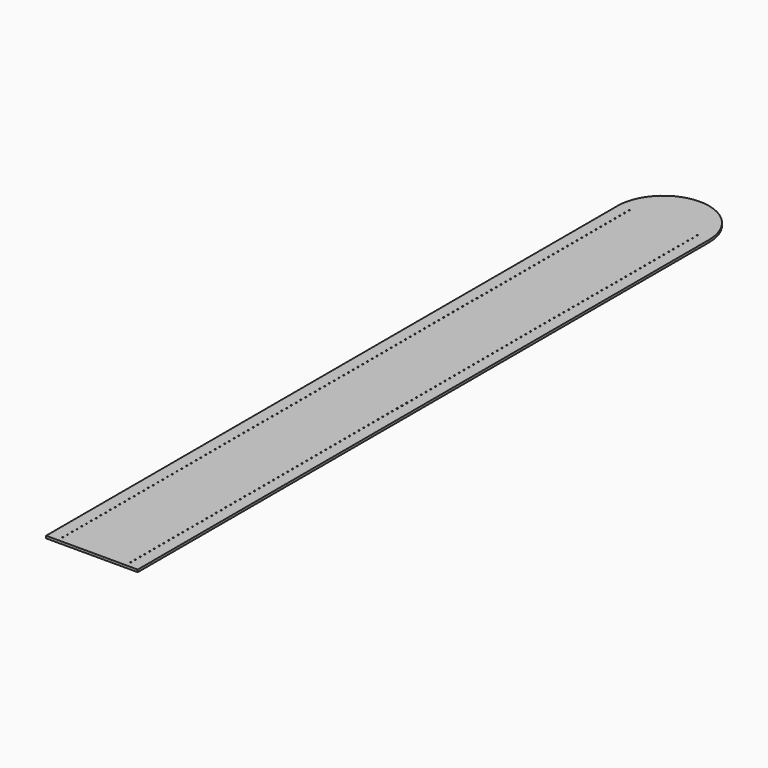
from build123d import *

# Parameters (mm, degrees)
SKETCH_R  = 0.5
PAD_DEPTH = 2


with BuildPart() as part:
    # Sketch → Pad (new body)
    with BuildSketch(Plane.XY):
        with BuildLine():
            Line((0, 0), (38.5, 0))
            Line((38.5, 0), (38.5, 600))
            ThreePointArc((38.5, 600), (27.223611, 627.223611), (0, 638.5))
            Line((0, 638.5), (0, 0))
        make_face()
        with Locations((28.5, 5)):
            Circle(SKETCH_R, mode=Mode.SUBTRACT)
        with Locations((28.5, 10)):
            Circle(SKETCH_R, mode=Mode.SUBTRACT)
        with Locations((28.5, 15)):
            Circle(SKETCH_R, mode=Mode.SUBTRACT)
        with Locations((28.5, 20)):
            Circle(SKETCH_R, mode=Mode.SUBTRACT)
        with Locations((28.5, 25)):
            Circle(SKETCH_R, mode=Mode.SUBTRACT)
        with Locations((28.5, 30)):
            Circle(SKETCH_R, mode=Mode.SUBTRACT)
        with Locations((28.5, 35)):
            Circle(SKETCH_R, mode=Mode.SUBTRACT)
        with Locations((28.5, 40)):
            Circle(SKETCH_R, mode=Mode.SUBTRACT)
        with Locations((28.5, 45)):
            Circle(SKETCH_R, mode=Mode.SUBTRACT)
        with Locations((28.5, 50)):
            Circle(SKETCH_R, mode=Mode.SUBTRACT)
        with Locations((28.5, 55)):
            Circle(SKETCH_R, mode=Mode.SUBTRACT)
        with Locations((28.5, 60)):
            Circle(SKETCH_R, mode=Mode.SUBTRACT)
        with Locations((28.5, 65)):
            Circle(SKETCH_R, mode=Mode.SUBTRACT)
        with Locations((28.5, 70)):
            Circle(SKETCH_R, mode=Mode.SUBTRACT)
        with Locations((28.5, 75)):
            Circle(SKETCH_R, mode=Mode.SUBTRACT)
        with Locations((28.5, 80)):
            Circle(SKETCH_R, mode=Mode.SUBTRACT)
        with Locations((28.5, 85)):
            Circle(SKETCH_R, mode=Mode.SUBTRACT)
        with Locations((28.5, 90)):
            Circle(SKETCH_R, mode=Mode.SUBTRACT)
        with Locations((28.5, 95)):
            Circle(SKETCH_R, mode=Mode.SUBTRACT)
        with Locations((28.5, 100)):
            Circle(SKETCH_R, mode=Mode.SUBTRACT)
        with Locations((28.5, 105)):
            Circle(SKETCH_R, mode=Mode.SUBTRACT)
        with Locations((28.5, 110)):
            Circle(SKETCH_R, mode=Mode.SUBTRACT)
        with Locations((28.5, 115)):
            Circle(SKETCH_R, mode=Mode.SUBTRACT)
        with Locations((28.5, 120)):
            Circle(SKETCH_R, mode=Mode.SUBTRACT)
        with Locations((28.5, 125)):
            Circle(SKETCH_R, mode=Mode.SUBTRACT)
        with Locations((28.5, 130)):
            Circle(SKETCH_R, mode=Mode.SUBTRACT)
        with Locations((28.5, 135)):
            Circle(SKETCH_R, mode=Mode.SUBTRACT)
        with Locations((28.5, 140)):
            Circle(SKETCH_R, mode=Mode.SUBTRACT)
        with Locations((28.5, 145)):
            Circle(SKETCH_R, mode=Mode.SUBTRACT)
        with Locations((28.5, 150)):
            Circle(SKETCH_R, mode=Mode.SUBTRACT)
        with Locations((28.5, 155)):
            Circle(SKETCH_R, mode=Mode.SUBTRACT)
        with Locations((28.5, 160)):
            Circle(SKETCH_R, mode=Mode.SUBTRACT)
        with Locations((28.5, 165)):
            Circle(SKETCH_R, mode=Mode.SUBTRACT)
        with Locations((28.5, 170)):
            Circle(SKETCH_R, mode=Mode.SUBTRACT)
        with Locations((28.5, 175)):
            Circle(SKETCH_R, mode=Mode.SUBTRACT)
        with Locations((28.5, 180)):
            Circle(SKETCH_R, mode=Mode.SUBTRACT)
        with Locations((28.5, 185)):
            Circle(SKETCH_R, mode=Mode.SUBTRACT)
        with Locations((28.5, 190)):
            Circle(SKETCH_R, mode=Mode.SUBTRACT)
        with Locations((28.5, 195)):
            Circle(SKETCH_R, mode=Mode.SUBTRACT)
        with Locations((28.5, 200)):
            Circle(SKETCH_R, mode=Mode.SUBTRACT)
        with Locations((28.5, 205)):
            Circle(SKETCH_R, mode=Mode.SUBTRACT)
        with Locations((28.5, 210)):
            Circle(SKETCH_R, mode=Mode.SUBTRACT)
        with Locations((28.5, 215)):
            Circle(SKETCH_R, mode=Mode.SUBTRACT)
        with Locations((28.5, 220)):
            Circle(SKETCH_R, mode=Mode.SUBTRACT)
        with Locations((28.5, 225)):
            Circle(SKETCH_R, mode=Mode.SUBTRACT)
        with Locations((28.5, 230)):
            Circle(SKETCH_R, mode=Mode.SUBTRACT)
        with Locations((28.5, 235)):
            Circle(SKETCH_R, mode=Mode.SUBTRACT)
        with Locations((28.5, 240)):
            Circle(SKETCH_R, mode=Mode.SUBTRACT)
        with Locations((28.5, 245)):
            Circle(SKETCH_R, mode=Mode.SUBTRACT)
        with Locations((28.5, 250)):
            Circle(SKETCH_R, mode=Mode.SUBTRACT)
        with Locations((28.5, 255)):
            Circle(SKETCH_R, mode=Mode.SUBTRACT)
        with Locations((28.5, 260)):
            Circle(SKETCH_R, mode=Mode.SUBTRACT)
        with Locations((28.5, 265)):
            Circle(SKETCH_R, mode=Mode.SUBTRACT)
        with Locations((28.5, 270)):
            Circle(SKETCH_R, mode=Mode.SUBTRACT)
        with Locations((28.5, 275)):
            Circle(SKETCH_R, mode=Mode.SUBTRACT)
        with Locations((28.5, 280)):
            Circle(SKETCH_R, mode=Mode.SUBTRACT)
        with Locations((28.5, 285)):
            Circle(SKETCH_R, mode=Mode.SUBTRACT)
        with Locations((28.5, 290)):
            Circle(SKETCH_R, mode=Mode.SUBTRACT)
        with Locations((28.5, 295)):
            Circle(SKETCH_R, mode=Mode.SUBTRACT)
        with Locations((28.5, 300)):
            Circle(SKETCH_R, mode=Mode.SUBTRACT)
        with Locations((28.5, 305)):
            Circle(SKETCH_R, mode=Mode.SUBTRACT)
        with Locations((28.5, 310)):
            Circle(SKETCH_R, mode=Mode.SUBTRACT)
        with Locations((28.5, 315)):
            Circle(SKETCH_R, mode=Mode.SUBTRACT)
        with Locations((28.5, 320)):
            Circle(SKETCH_R, mode=Mode.SUBTRACT)
        with Locations((28.5, 325)):
            Circle(SKETCH_R, mode=Mode.SUBTRACT)
        with Locations((28.5, 330)):
            Circle(SKETCH_R, mode=Mode.SUBTRACT)
        with Locations((28.5, 335)):
            Circle(SKETCH_R, mode=Mode.SUBTRACT)
        with Locations((28.5, 340)):
            Circle(SKETCH_R, mode=Mode.SUBTRACT)
        with Locations((28.5, 345)):
            Circle(SKETCH_R, mode=Mode.SUBTRACT)
        with Locations((28.5, 350)):
            Circle(SKETCH_R, mode=Mode.SUBTRACT)
        with Locations((28.5, 355)):
            Circle(SKETCH_R, mode=Mode.SUBTRACT)
        with Locations((28.5, 360)):
            Circle(SKETCH_R, mode=Mode.SUBTRACT)
        with Locations((28.5, 365)):
            Circle(SKETCH_R, mode=Mode.SUBTRACT)
        with Locations((28.5, 370)):
            Circle(SKETCH_R, mode=Mode.SUBTRACT)
        with Locations((28.5, 375)):
            Circle(SKETCH_R, mode=Mode.SUBTRACT)
        with Locations((28.5, 380)):
            Circle(SKETCH_R, mode=Mode.SUBTRACT)
        with Locations((28.5, 385)):
            Circle(SKETCH_R, mode=Mode.SUBTRACT)
        with Locations((28.5, 390)):
            Circle(SKETCH_R, mode=Mode.SUBTRACT)
        with Locations((28.5, 395)):
            Circle(SKETCH_R, mode=Mode.SUBTRACT)
        with Locations((28.5, 400)):
            Circle(SKETCH_R, mode=Mode.SUBTRACT)
        with Locations((28.5, 405)):
            Circle(SKETCH_R, mode=Mode.SUBTRACT)
        with Locations((28.5, 410)):
            Circle(SKETCH_R, mode=Mode.SUBTRACT)
        with Locations((28.5, 415)):
            Circle(SKETCH_R, mode=Mode.SUBTRACT)
        with Locations((28.5, 420)):
            Circle(SKETCH_R, mode=Mode.SUBTRACT)
        with Locations((28.5, 425)):
            Circle(SKETCH_R, mode=Mode.SUBTRACT)
        with Locations((28.5, 430)):
            Circle(SKETCH_R, mode=Mode.SUBTRACT)
        with Locations((28.5, 435)):
            Circle(SKETCH_R, mode=Mode.SUBTRACT)
        with Locations((28.5, 440)):
            Circle(SKETCH_R, mode=Mode.SUBTRACT)
        with Locations((28.5, 445)):
            Circle(SKETCH_R, mode=Mode.SUBTRACT)
        with Locations((28.5, 450)):
            Circle(SKETCH_R, mode=Mode.SUBTRACT)
        with Locations((28.5, 455)):
            Circle(SKETCH_R, mode=Mode.SUBTRACT)
        with Locations((28.5, 460)):
            Circle(SKETCH_R, mode=Mode.SUBTRACT)
        with Locations((28.5, 465)):
            Circle(SKETCH_R, mode=Mode.SUBTRACT)
        with Locations((28.5, 470)):
            Circle(SKETCH_R, mode=Mode.SUBTRACT)
        with Locations((28.5, 475)):
            Circle(SKETCH_R, mode=Mode.SUBTRACT)
        with Locations((28.5, 480)):
            Circle(SKETCH_R, mode=Mode.SUBTRACT)
        with Locations((28.5, 485)):
            Circle(SKETCH_R, mode=Mode.SUBTRACT)
        with Locations((28.5, 490)):
            Circle(SKETCH_R, mode=Mode.SUBTRACT)
        with Locations((28.5, 495)):
            Circle(SKETCH_R, mode=Mode.SUBTRACT)
        with Locations((28.5, 500)):
            Circle(SKETCH_R, mode=Mode.SUBTRACT)
        with Locations((28.5, 505)):
            Circle(SKETCH_R, mode=Mode.SUBTRACT)
        with Locations((28.5, 510)):
            Circle(SKETCH_R, mode=Mode.SUBTRACT)
        with Locations((28.5, 515)):
            Circle(SKETCH_R, mode=Mode.SUBTRACT)
        with Locations((28.5, 520)):
            Circle(SKETCH_R, mode=Mode.SUBTRACT)
        with Locations((28.5, 525)):
            Circle(SKETCH_R, mode=Mode.SUBTRACT)
        with Locations((28.5, 530)):
            Circle(SKETCH_R, mode=Mode.SUBTRACT)
        with Locations((28.5, 535)):
            Circle(SKETCH_R, mode=Mode.SUBTRACT)
        with Locations((28.5, 540)):
            Circle(SKETCH_R, mode=Mode.SUBTRACT)
        with Locations((28.5, 545)):
            Circle(SKETCH_R, mode=Mode.SUBTRACT)
        with Locations((28.5, 550)):
            Circle(SKETCH_R, mode=Mode.SUBTRACT)
        with Locations((28.5, 555)):
            Circle(SKETCH_R, mode=Mode.SUBTRACT)
        with Locations((28.5, 560)):
            Circle(SKETCH_R, mode=Mode.SUBTRACT)
        with Locations((28.5, 565)):
            Circle(SKETCH_R, mode=Mode.SUBTRACT)
        with Locations((28.5, 570)):
            Circle(SKETCH_R, mode=Mode.SUBTRACT)
        with Locations((28.5, 575)):
            Circle(SKETCH_R, mode=Mode.SUBTRACT)
        with Locations((28.5, 580)):
            Circle(SKETCH_R, mode=Mode.SUBTRACT)
        with Locations((28.5, 585)):
            Circle(SKETCH_R, mode=Mode.SUBTRACT)
        with Locations((28.5, 590)):
            Circle(SKETCH_R, mode=Mode.SUBTRACT)
        with Locations((28.5, 595)):
            Circle(SKETCH_R, mode=Mode.SUBTRACT)
        with Locations((28.5, 600)):
            Circle(SKETCH_R, mode=Mode.SUBTRACT)
    pad = extrude(amount=PAD_DEPTH)

    # Mirrored: Pad across Sketch V_Axis
    add(pad.mirror(Plane(origin=(0, 0, 0), x_dir=(0, 0, 1), z_dir=(1, 0, 0))))


solid = part.part
